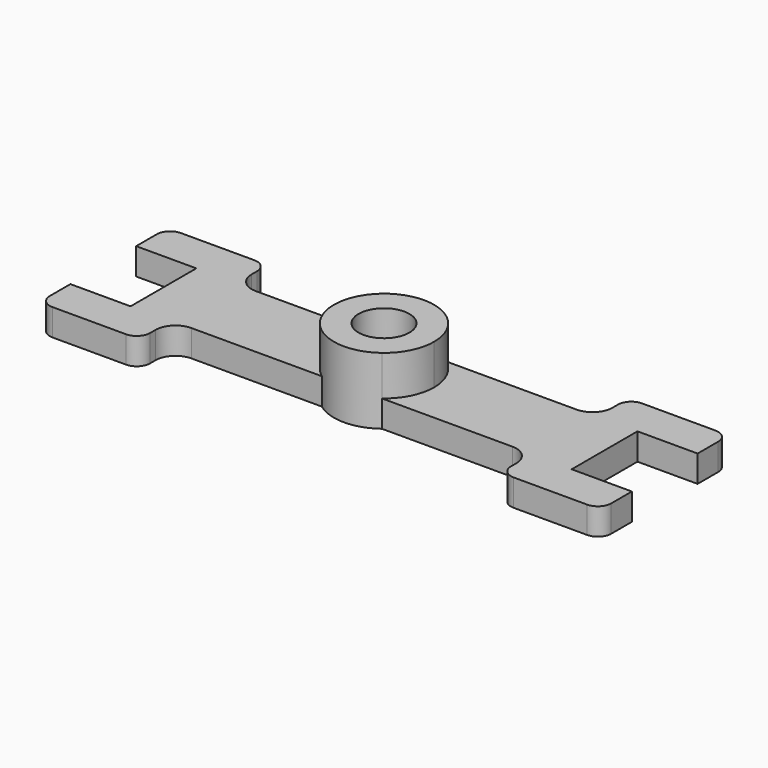
from build123d import *

# Parameters (mm, degrees)
F0_R     = 3.8
F1_DEPTH = 10
F2_DEPTH = 4
F3_DEPTH = 3


with BuildPart() as f1:
    # F0 (on Top) → F1 (new body)
    with BuildSketch(Plane.XY):
        with BuildLine():
            ThreePointArc((7.5, 0), (6.7082039325, 3.3541019662), (4.5, 6))
            Line((4.5, 6), (-4.5, 6))
            ThreePointArc((-4.5, 6), (-7.5, 0), (-4.5, -6))
            Line((-4.5, -6), (4.5, -6))
            ThreePointArc((4.5, -6), (6.7082039325, -3.3541019662), (7.5, 0))
        make_face()
        Circle(F0_R, mode=Mode.SUBTRACT)
        with BuildLine():
            Line((4.5, -6), (-4.5, -6))
            ThreePointArc((-4.5, -6), (0, -7.5), (4.5, -6))
        make_face()
        with BuildLine():
            Line((-4.5, 6), (4.5, 6))
            ThreePointArc((4.5, 6), (0, 7.5), (-4.5, 6))
        make_face()
    extrude(amount=F1_DEPTH)

    # F0 (on Top) → F2 (join)
    with BuildSketch(Plane.XY):
        with BuildLine():
            ThreePointArc((-4.5, -6), (-7.5, 0), (-4.5, 6))
            Line((-4.5, 6), (-24, 6))
            ThreePointArc((-24, 6), (-26.1213203436, 6.8786796564), (-27, 9))
            Line((-27, 9), (-27, 10))
            ThreePointArc((-27, 10), (-27.5857864376, 11.4142135624), (-29, 12))
            Line((-29, 12), (-40, 12))
            ThreePointArc((-40, 12), (-41.4142135624, 11.4142135624), (-42, 10))
            Line((-42, 10), (-42, 6.15))
            Line((-42, 6.15), (-33, 6.15))
            Line((-33, 6.15), (-33, -6.15))
            Line((-33, -6.15), (-42, -6.15))
            Line((-42, -6.15), (-42, -10))
            ThreePointArc((-42, -10), (-41.4142135624, -11.4142135624), (-40, -12))
            Line((-40, -12), (-29, -12))
            ThreePointArc((-29, -12), (-27.5857864376, -11.4142135624), (-27, -10))
            Line((-27, -10), (-27, -9))
            ThreePointArc((-27, -9), (-26.1213203436, -6.8786796564), (-24, -6))
            Line((-24, -6), (-4.5, -6))
        make_face()
        with BuildLine():
            ThreePointArc((27, 9), (26.1213203436, 6.8786796564), (24, 6))
            Line((24, 6), (4.5, 6))
            ThreePointArc((4.5, 6), (6.7082039325, 3.3541019662), (7.5, 0))
            ThreePointArc((7.5, 0), (6.7082039325, -3.3541019662), (4.5, -6))
            Line((4.5, -6), (24, -6))
            ThreePointArc((24, -6), (26.1213203436, -6.8786796564), (27, -9))
            Line((27, -9), (27, -10))
            ThreePointArc((27, -10), (27.5857864376, -11.4142135624), (29, -12))
            Line((29, -12), (40, -12))
            ThreePointArc((40, -12), (41.4142135624, -11.4142135624), (42, -10))
            Line((42, -10), (42, -6.15))
            Line((42, -6.15), (33, -6.15))
            Line((33, -6.15), (33, 6.15))
            Line((33, 6.15), (42, 6.15))
            Line((42, 6.15), (42, 10))
            ThreePointArc((42, 10), (41.4142135624, 11.4142135624), (40, 12))
            Line((40, 12), (29, 12))
            ThreePointArc((29, 12), (27.5857864376, 11.4142135624), (27, 10))
            Line((27, 10), (27, 9))
        make_face()
    extrude(amount=F2_DEPTH)

    # F0 (on Top) → F3 (join)
    with BuildSketch(Plane.XY):
        Circle(F0_R)
    extrude(amount=F3_DEPTH)


solid = f1.part
